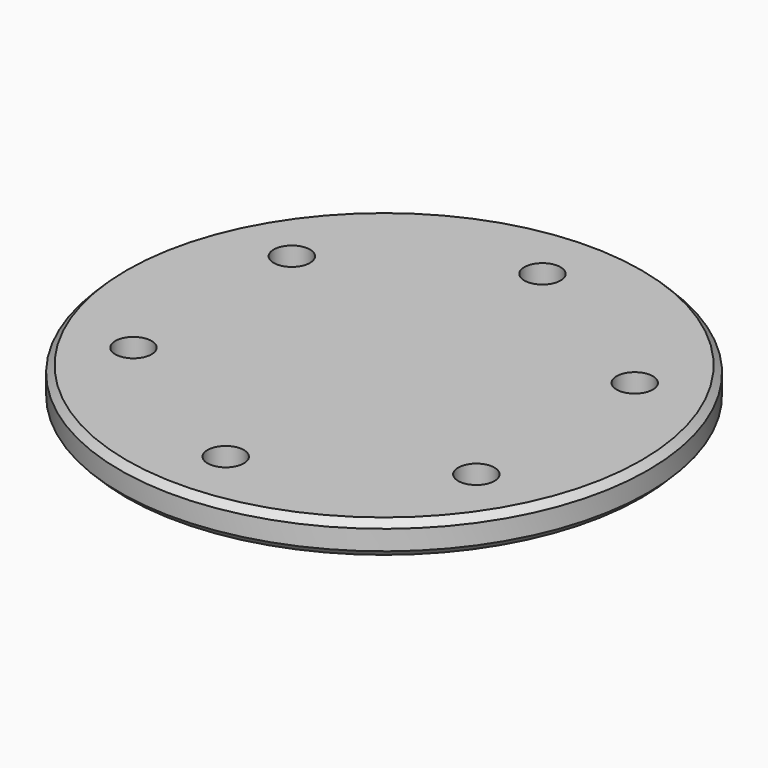
from build123d import *

# Parameters (mm, degrees)
F0_R     = 40
F1_DEPTH = 5
F3_D     = 5.5
F4_SIZE  = 1


with BuildPart() as f1:
    # F0 (on Top) → F1 (new body)
    with BuildSketch(Plane.XY):
        Circle(F0_R)
    extrude(amount=F1_DEPTH)

    # F3 (through all)
    with Locations(Plane(origin=(0, 0, 0), x_dir=(1, 0, 0), z_dir=(0, 0, -1))):
        with Locations((0, 30), (25.980762, -15), (-25.980762, -15), (0, -30), (25.980762, 15), (-25.980762, 15)):
            Hole(F3_D / 2)

    # F4
    f4_edges = [f1.edges().sort_by_distance(p)[0] for p in [
        (-40, 0, 5),
        (-40, 0, 0),
    ]]
    chamfer(f4_edges, length=F4_SIZE)


solid = f1.part
